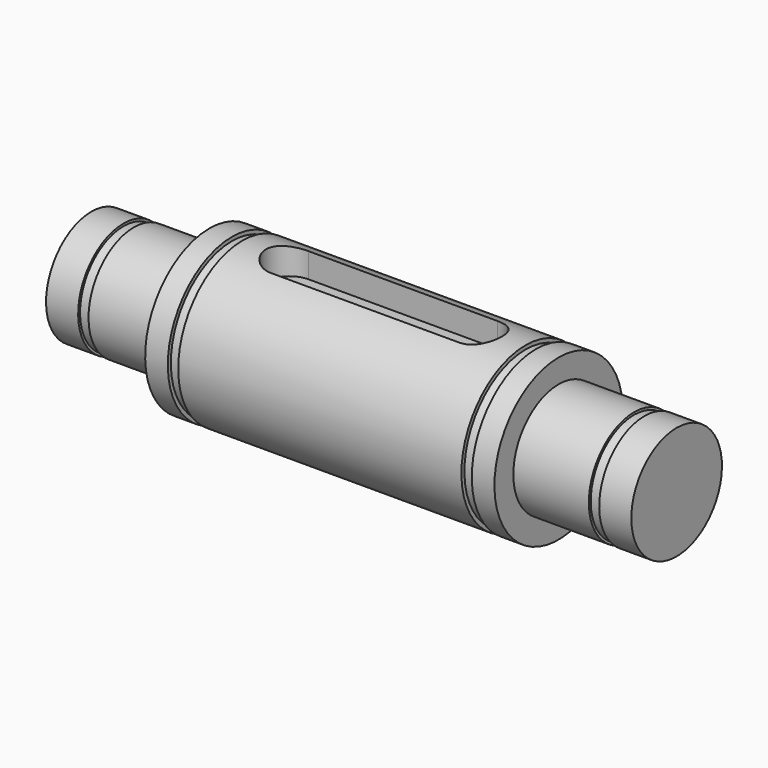
from build123d import *

# Parameters (mm, degrees)
F4_DEPTH = 3


with BuildPart() as f1:
    # F0 (on Front) → F1 (revolve)
    with BuildSketch(Plane.XZ):
        Polygon((2.250003, 6), (2.250003, 0), (64.250003, 0), (64.250003, 6), (60.850003, 6), (60.850003, 5.75), (59.750003, 5.75), (59.750003, 6), (51.750003, 6), (51.750003, 8.5), (49.350003, 8.5), (49.350003, 8.1), (48.250003, 8.1), (48.250003, 8.5), (18.250003, 8.5), (18.250003, 8.1), (17.150003, 8.1), (17.150003, 8.5), (14.750003, 8.5), (14.750003, 6), (6.750003, 6), (6.750003, 5.75), (5.650003, 5.75), (5.650003, 6), align=None)
    revolve(axis=Axis((33.250003, 0, 0), (1, 0, 0)))

    # F3 (on offset) → F4 (cut)
    with BuildSketch(Plane.XY.offset(8.5)):
        with BuildLine():
            Line((43.250003, 2.5), (23.250003, 2.5))
            ThreePointArc((23.250003, 2.5), (20.750003, 0), (23.250003, -2.5))
            Line((23.250003, -2.5), (43.250003, -2.5))
            ThreePointArc((43.250003, -2.5), (45.750003, 0), (43.250003, 2.5))
        make_face()
    extrude(amount=-F4_DEPTH, mode=Mode.SUBTRACT)


solid = f1.part
